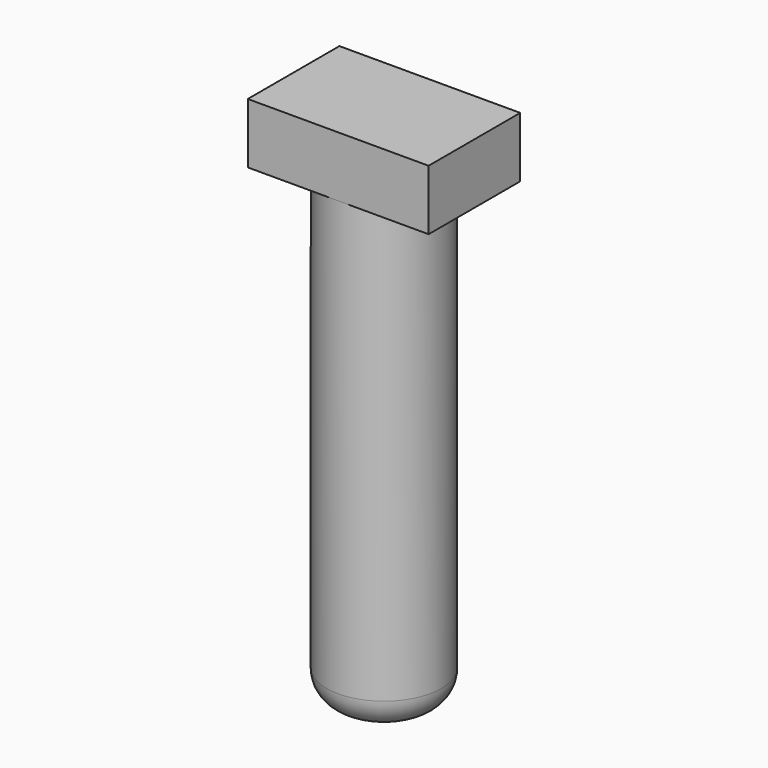
from build123d import *

# Parameters (mm, degrees)
SKETCH028_W  = 6
SKETCH028_H  = 3.8
PAD011_DEPTH = 2
SKETCH032_R  = 1.9
PAD015_DEPTH = 15.4
FILLET011_R  = 1


with BuildPart() as part:
    # Sketch028 → Pad011 (new body)
    with BuildSketch(Plane.XY.offset(13.4)):
        with Locations((-14, -30.5)):
            Rectangle(SKETCH028_W, SKETCH028_H)
    extrude(amount=PAD011_DEPTH)

    # Sketch032 (on Face5 of Pad011) → Pad015 (join)
    with BuildSketch(Plane(origin=(0, 0, 13.4), x_dir=(1, 0, 0), z_dir=(0, 0, -1))):
        with Locations((-14, 30.5)):
            Circle(SKETCH032_R)
    extrude(amount=PAD015_DEPTH)

    # Fillet011
    fillet011_edges = [part.edges().sort_by_distance(p)[0] for p in [
        (-15.9, -30.5, -2),
    ]]
    fillet(fillet011_edges, radius=FILLET011_R)


solid = part.part
